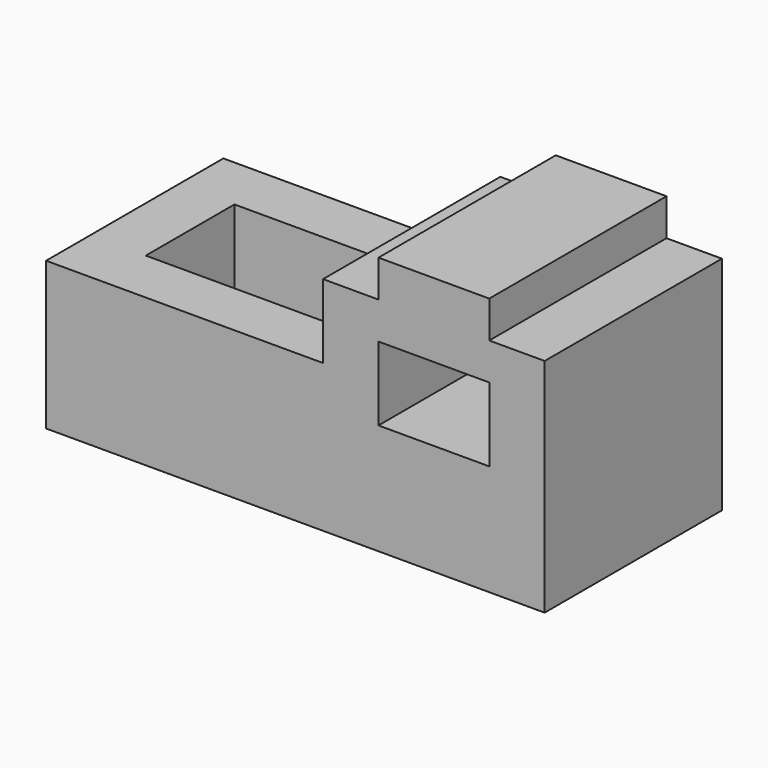
from build123d import *

# Parameters (mm, degrees)
F1_DEPTH = 1219.2
F2_W     = 609.6
F2_H     = 406.4
F3_DEPTH = 1219.201
F4_W     = 1219.2
F4_H     = 609.6
F5_DEPTH = 609.6


with BuildPart() as f1:
    # F0 (on Front) → F1 (new body)
    with BuildSketch(Plane.XZ):
        Polygon((-118.569039, 825.572681), (-118.569039, 12.772681), (2624.630961, 12.772681), (2624.630961, 1231.972681), (2319.830961, 1231.972681), (2319.830961, 1435.172681), (1710.230961, 1435.172681), (1710.230961, 1231.972681), (1405.430961, 1231.972681), (1405.430961, 825.572681), align=None)
    extrude(amount=F1_DEPTH)

    # F2 (on face) → F3 (cut, through all)
    with BuildSketch(Plane.XZ.offset(1219.2)):
        with Locations((2015.030961, 825.572681)):
            Rectangle(F2_W, F2_H)
    extrude(amount=-F3_DEPTH, mode=Mode.SUBTRACT)

    # F4 (on face) → F5 (cut)
    with BuildSketch(Plane.XY.offset(825.572681)):
        with Locations((795.830961, -609.6)):
            Rectangle(F4_W, F4_H)
    extrude(amount=-F5_DEPTH, mode=Mode.SUBTRACT)


solid = f1.part
